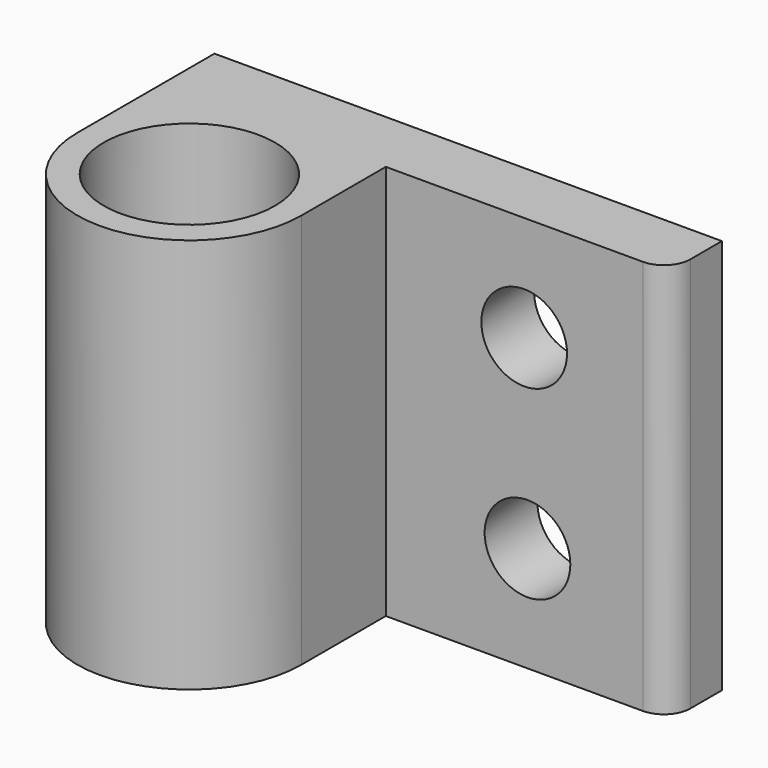
from build123d import *

# Parameters (mm, degrees)
F0_R     = 3.25
F1_DEPTH = 15
F2_R     = 1.625
F3_DEPTH = 3
F4_R     = 1


with BuildPart() as f1:
    # F0 (on Top) → F1 (new body)
    with BuildSketch(Plane.XY):
        with BuildLine():
            Line((-4.25, 6.5), (-4.25, 0))
            ThreePointArc((-4.25, 0), (0, -4.25), (4.25, 0))
            Line((4.25, 0), (4.25, 4))
            Line((4.25, 4), (15, 4))
            Line((15, 4), (15, 6.5))
            Line((15, 6.5), (-4.25, 6.5))
        make_face()
        Circle(F0_R, mode=Mode.SUBTRACT)
    extrude(amount=F1_DEPTH)

    # F2 (on face) → F3 (cut)
    with BuildSketch(Plane.XZ.offset(-4)):
        with Locations((9.5, 11)):
            Circle(F2_R)
        with Locations((9.625, 4)):
            Circle(F2_R)
    extrude(amount=-F3_DEPTH, mode=Mode.SUBTRACT)

    # F4
    f4_edges = [f1.edges().sort_by_distance(p)[0] for p in [
        (15, 4, 7.5),
    ]]
    fillet(f4_edges, radius=F4_R)


solid = f1.part
